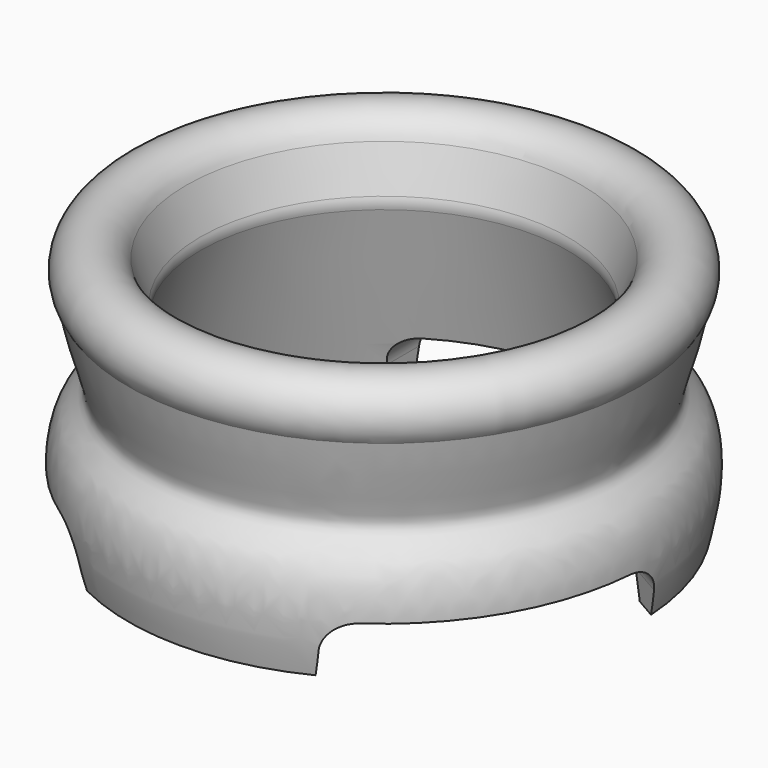
from build123d import *

# Parameters (mm, degrees)
POCKET_DEPTH       = 139.961054
POLARPATTERN_COUNT = 3


with BuildPart() as part:
    # Sketch → Revolution (revolve)
    with BuildSketch(Plane.XZ):
        with BuildLine():
            Line((13.947564, 14.879347), (15, 18))
            ThreePointArc((15, 18), (18.533073, 19.413491), (19.368911, 15.701088))
            add(Edge.make_bspline(
                [(19.368911, 15.701088), (18.368911, 10.813705), (16.368911, 9), (21.168911, 6.942648), (19.368911, 0)],
                knots=[0, 0, 0, 0, 0.5, 1, 1, 1, 1], degree=3))
            Line((19.368911, 0), (17.868911, 0))
            Line((17.868911, 0), (13.925155, 13.993098))
            ThreePointArc((13.925155, 13.993098), (13.86939, 14.437916), (13.947564, 14.879347))
        make_face()
    revolve(axis=Axis((0, 0, 0), (0, 0, 1)))

    # Sketch001 → Pocket (cut, through all)
    with BuildSketch(Plane.XZ):
        with BuildLine():
            Line((-10.668259, 1.885811), (-10.668259, 0))
            Line((-10.668259, 0), (10.668259, 0))
            Line((10.668259, 0), (10.668259, 1.885811))
            ThreePointArc((10.668259, 1.885811), (10.049027, 3.380768), (8.55407, 4))
            Line((8.55407, 4), (-8.55407, 4))
            ThreePointArc((-8.55407, 4), (-10.049027, 3.380768), (-10.668259, 1.885811))
        make_face()
    pocket = extrude(amount=-POCKET_DEPTH, mode=Mode.SUBTRACT)

    # PolarPattern: Pocket ×3 about axis
    polarpattern_axis = Axis((0, 0, 0), (0, 0, 1))
    for i in range(1, POLARPATTERN_COUNT):
        add(pocket.rotate(polarpattern_axis, i * 360 / POLARPATTERN_COUNT), mode=Mode.SUBTRACT)


solid = part.part
